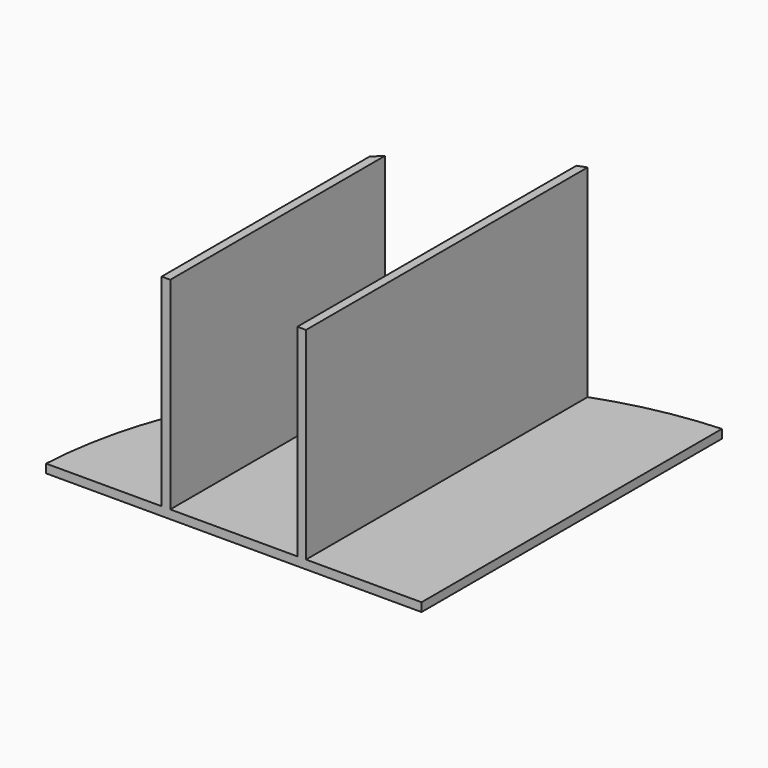
from build123d import *

# Parameters (mm, degrees)
F1_DEPTH = 3
F3_DEPTH = 70


with BuildPart() as f1:
    # F0 (on Top) → F1 (new body)
    with BuildSketch(Plane.XY):
        with BuildLine():
            Line((100.992307, 7.216395), (100.992307, 137.216395))
            ThreePointArc((100.992307, 137.216395), (11.010612, 97.19809), (-29.007693, 7.216395))
            Line((-29.007693, 7.216395), (100.992307, 7.216395))
        make_face()
    extrude(amount=F1_DEPTH)

    # F2 (on face) → F3 (join)
    with BuildSketch(Plane.XY.offset(3)):
        with BuildLine():
            ThreePointArc((13.992307, 100.090871), (12.481224, 98.646748), (10.992307, 97.179782))
            Line((10.992307, 97.179782), (10.992307, 7.216395))
            Line((10.992307, 7.216395), (13.992307, 7.216395))
            Line((13.992307, 7.216395), (13.992307, 100.090871))
        make_face()
        with BuildLine():
            ThreePointArc((60.992307, 129.074735), (59.488991, 128.515911), (57.992307, 127.939559))
            Line((57.992307, 127.939559), (57.992307, 7.216395))
            Line((57.992307, 7.216395), (60.992307, 7.216395))
            Line((60.992307, 7.216395), (60.992307, 129.074735))
        make_face()
    extrude(amount=F3_DEPTH)


solid = f1.part
